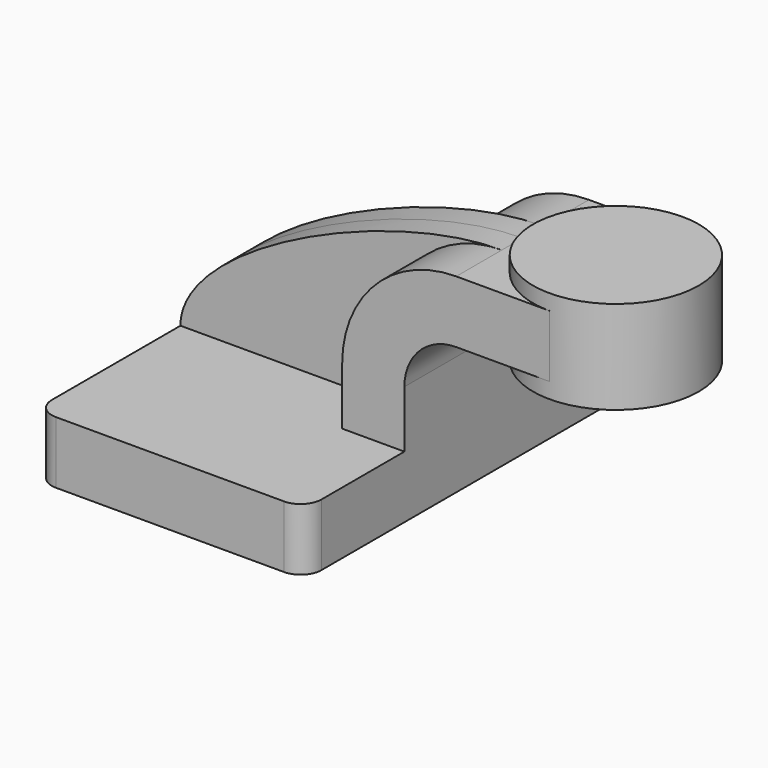
from build123d import *

# Parameters (mm, degrees)
F1_DEPTH = 63.5
F0_W     = 25.4
F0_H     = 19.05
F2_DEPTH = 25.4
F3_DEPTH = 7.9375
F5_R     = 6.35


with BuildPart() as f1:
    # F0 (on Front) → F1 (new body, symmetric)
    with BuildSketch(Plane.XZ):
        Polygon((-41.275, -9.525), (41.275, -9.525), (41.275, 9.525), (22.225, 9.525), (-41.275, 9.525), align=None)
    extrude(amount=F1_DEPTH, both=True)

    # F0 (on Front) → F2 (join, symmetric)
    with BuildSketch(Plane.XZ):
        with BuildLine():
            Line((22.225, 9.525), (41.275, 9.525))
            Line((41.275, 9.525), (41.275, 27.0002))
            ThreePointArc((41.275, 27.0002), (45.9246798487, 38.2255201513), (57.15, 42.8752))
            Line((57.15, 42.8752), (60.325, 42.8752))
            Line((60.325, 42.8752), (60.325, 61.9252))
            Line((60.325, 61.9252), (57.15, 61.9252))
            ThreePointArc((57.15, 61.9252), (32.4542956671, 51.6959043329), (22.225, 27.0002))
            Line((22.225, 27.0002), (22.225, 9.525))
        make_face()
        with Locations((73.025, 52.4002)):
            Rectangle(F0_W, F0_H)
        with Locations((73.025, 52.4002)):
            Rectangle(F0_W, F0_H)
    extrude(amount=F2_DEPTH, both=True)

    # F0 (on Front) → F3 (join, symmetric)
    with BuildSketch(Plane.XZ):
        with BuildLine():
            add(Edge.make_bspline(
                [(57.15, 61.9252), (22.114219144, 62.0401166379), (-41.326597333, 33.19966048), (-41.275, 9.525)],
                knots=[0, 0, 0, 0, 111.5045361635, 111.5045361635, 111.5045361635, 111.5045361635], degree=3))
            Line((-41.275, 9.525), (22.225, 9.525))
            Line((22.225, 9.525), (22.225, 27.0002))
            ThreePointArc((22.225, 27.0002), (32.4542956671, 51.6959043329), (57.15, 61.9252))
        make_face()
    extrude(amount=F3_DEPTH, both=True)

    # F5
    f5_edges = [f1.edges().sort_by_distance(p)[0] for p in [
        (41.275, -63.5, 0),
        (-41.275, -63.5, 0),
        (-41.275, 63.5, 0),
        (41.275, 63.5, 0),
    ]]
    fillet(f5_edges, radius=F5_R)


with BuildPart() as f4:
    # F0 (on Front) → F4 (revolve)
    with BuildSketch(Plane.XZ):
        Polygon((85.725, 66.675), (85.725, 61.9252), (85.725, 42.8752), (85.725, 38.1), (111.125, 38.1), (111.125, 66.675), align=None)
    revolve(axis=Axis((85.725, 0, 52.3875), (0, 0, -1)))


solid = Compound([f1.part, f4.part])
